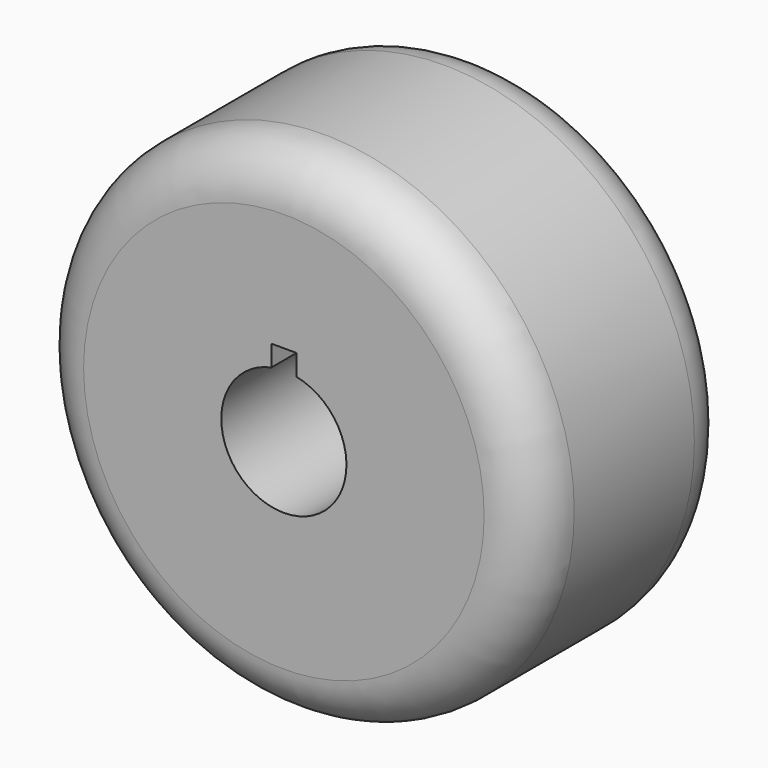
from build123d import *

# Parameters (mm, degrees)
F0_R     = 25.4
F1_DEPTH = 25.4
F2_R     = 5.08


with BuildPart() as f1:
    # F0 (on Front) → F1 (new body)
    with BuildSketch(Plane.XZ):
        Circle(F0_R)
        with BuildLine():
            ThreePointArc((1.27, 6.221704), (0, -6.35), (-1.27, 6.221704))
            Line((-1.27, 6.221704), (-1.27, 8.351671))
            Line((-1.27, 8.351671), (1.27, 8.351671))
            Line((1.27, 8.351671), (1.27, 6.221704))
        make_face(mode=Mode.SUBTRACT)
    extrude(amount=F1_DEPTH)

    # F2
    f2_edges = [f1.edges().sort_by_distance(p)[0] for p in [
        (-25.4, 0, 0),
        (-25.4, -25.4, 0),
    ]]
    fillet(f2_edges, radius=F2_R)


solid = f1.part
